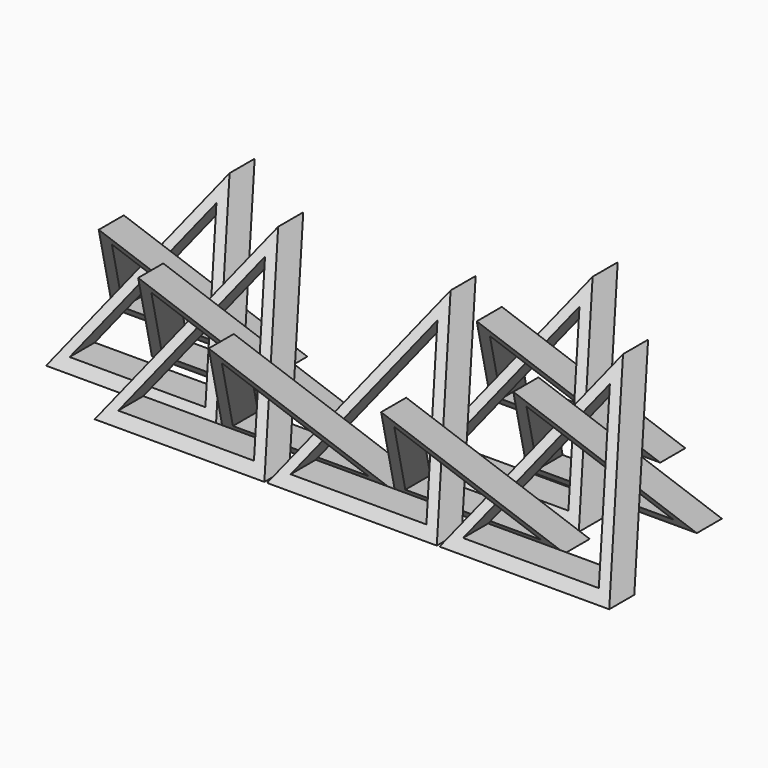
from build123d import *

# Parameters (mm, degrees)
F1_DEPTH = 50
F3_DEPTH = 50.001
F5_START = -25
F5_DEPTH = 50


with BuildPart() as f1:
    # F0 (on Front) → F1 (new body)
    with BuildSketch(Plane.XZ):
        Polygon((-21.6506350946, -12.5), (21.6506350946, -12.5), (0, 25), align=None)
    extrude(amount=F1_DEPTH)

    # F2 (on face) → F3 (cut, through all)
    with BuildSketch(Plane(origin=(0, 0, 0), x_dir=(-1, 0, 0), z_dir=(0, 1, 0))):
        Polygon((-17.3205080757, -10), (17.3205080757, -10), (0, 20), align=None)
    extrude(amount=-F3_DEPTH, mode=Mode.SUBTRACT)

    # F4 (on Right) → F5 (intersect)
    with BuildSketch(Plane.YZ.offset(F5_START)):
        Polygon((-38.065219712, -15.9886991688), (0, 29.3756631759), (-6.5210579735, 31.1381976492), (-46.065219712, -15.9886991688), align=None)
    extrude(amount=F5_DEPTH, mode=Mode.INTERSECT)


with BuildPart() as f6_1:
    # F6: instance of F1
    add(f1.part.mirror(Plane.XZ))


with BuildPart() as f7_1:
    # F7: copy of F6_1
    add(f6_1.part.moved(Location((-22, -65, 0))))


with BuildPart() as f6_1_1:
    # F8: moved
    add(f6_1.part.moved(Location((22, -65, 0))))


with BuildPart() as f9_1:
    # F9: copy of F1
    add(f1.part.moved(Location((-44, 0, 0))))


with BuildPart() as f10_1:
    # F10: copy of F1
    add(f1.part.moved(Location((44, 0, 0))))


with BuildPart() as f11_1:
    # F11: copy of F7_1
    add(f7_1.part.moved(Location((-30, 15, 0))))


with BuildPart() as f12_1:
    # F12: copy of F9_1
    add(f9_1.part.moved(Location((-22, 12, 0))))


with BuildPart() as f13_1:
    # F13: copy of F11_1
    add(f11_1.part.moved(Location((-19.1, 11.3, 0))))


with BuildPart() as f14_1:
    # F14: copy of F6_1
    add(f6_1_1.part.moved(Location((15.1, 23.3, 0))))


with BuildPart() as f15_1:
    # F15: copy of F1
    add(f1.part.moved(Location((18.4, 22.3, 0))))


with BuildPart() as f16_1:
    # F16: copy of F14_1
    add(f14_1.part.moved(Location((-24.7, 19.2, 0))))


solid = Compound([f1.part, f7_1.part, f6_1_1.part, f9_1.part, f10_1.part, f11_1.part, f12_1.part, f13_1.part, f14_1.part, f15_1.part, f16_1.part])
